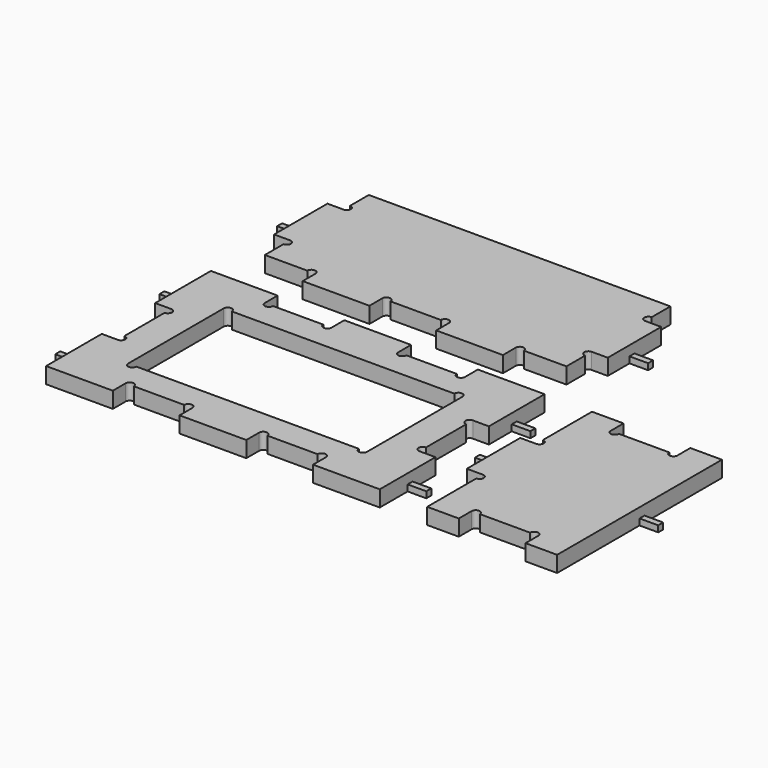
from build123d import *

# Parameters (mm, degrees)
F2_DEPTH  = 12.9
F1_W      = 12.9
F1_H      = 53.64
F1_W_2    = 53.64
F1_H_2    = 12.9
F3_DEPTH  = 12.9
F4_DEPTH  = 12.9
F5_W      = 5
F5_H      = 5
F6_DEPTH  = 15
F7_W      = 5
F7_H      = 5
F8_DEPTH  = 15
F9_W      = 5
F9_H      = 5
F10_DEPTH = 15
F11_W     = 5
F11_H     = 5
F12_DEPTH = 15
F13_W     = 5
F13_H     = 5
F14_DEPTH = 15
F15_W     = 5
F15_H     = 5
F16_DEPTH = 15
F17_W     = 5
F17_H     = 5
F18_DEPTH = 15
F19_W     = 5
F19_H     = 5
F20_DEPTH = 15


with BuildPart() as f2:
    # F1 (on Top) → F2 (new body)
    with BuildSketch(Plane.XY):
        with BuildLine():
            Line((-80.46, 82.7777777778), (-134.1, 82.7777777778))
            Line((-134.1, 82.7777777778), (-134.1, 26.82))
            Line((-134.1, 26.82), (-121.2, 26.82))
            ThreePointArc((-121.2, 26.82), (-118.8651334085, 25.8528665915), (-117.898, 23.518))
            ThreePointArc((-117.898, 23.518), (-118.8651334085, 21.1831334085), (-121.2, 20.216))
            Line((-121.2, 20.216), (-121.2, -20.216))
            ThreePointArc((-121.2, -20.216), (-118.8651334085, -21.1831334085), (-117.898, -23.518))
            ThreePointArc((-117.898, -23.518), (-118.8651334085, -25.8528665915), (-121.2, -26.82))
            Line((-121.2, -26.82), (-134.1, -26.82))
            Line((-134.1, -26.82), (-134.1, -82.7777777778))
            Line((-134.1, -82.7777777778), (-80.46, -82.7777777778))
            Line((-80.46, -82.7777777778), (-80.46, -69.8777777778))
            ThreePointArc((-80.46, -69.8777777778), (-77.158, -66.5757777778), (-73.856, -69.8777777778))
            Line((-73.856, -69.8777777778), (-33.424, -69.8777777778))
            ThreePointArc((-33.424, -69.8777777778), (-30.122, -66.5757777778), (-26.82, -69.8777777778))
            Line((-26.82, -69.8777777778), (-26.82, -82.7777777778))
            Line((-26.82, -82.7777777778), (26.82, -82.7777777778))
            Line((26.82, -82.7777777778), (26.82, -69.8777777778))
            ThreePointArc((26.82, -69.8777777778), (30.122, -66.5757777778), (33.424, -69.8777777778))
            Line((33.424, -69.8777777778), (73.856, -69.8777777778))
            ThreePointArc((73.856, -69.8777777778), (77.158, -66.5757777778), (80.46, -69.8777777778))
            Line((80.46, -69.8777777778), (80.46, -82.7777777778))
            Line((80.46, -82.7777777778), (134.1, -82.7777777778))
            Line((134.1, -82.7777777778), (134.1, -26.82))
            Line((134.1, -26.82), (121.2, -26.82))
            ThreePointArc((121.2, -26.82), (117.898, -23.518), (121.2, -20.216))
            Line((121.2, -20.216), (121.2, 20.216))
            ThreePointArc((121.2, 20.216), (117.898, 23.518), (121.2, 26.82))
            Line((121.2, 26.82), (134.1, 26.82))
            Line((134.1, 26.82), (134.1, 82.7777777778))
            Line((134.1, 82.7777777778), (80.46, 82.7777777778))
            Line((80.46, 82.7777777778), (80.46, 69.8777777778))
            ThreePointArc((80.46, 69.8777777778), (77.158, 66.5757777778), (73.856, 69.8777777778))
            Line((73.856, 69.8777777778), (33.424, 69.8777777778))
            ThreePointArc((33.424, 69.8777777778), (30.122, 66.5757777778), (26.82, 69.8777777778))
            Line((26.82, 69.8777777778), (26.82, 82.7777777778))
            Line((26.82, 82.7777777778), (-26.82, 82.7777777778))
            Line((-26.82, 82.7777777778), (-26.82, 69.8777777778))
            ThreePointArc((-26.82, 69.8777777778), (-30.122, 66.5757777778), (-33.424, 69.8777777778))
            Line((-33.424, 69.8777777778), (-73.856, 69.8777777778))
            ThreePointArc((-73.856, 69.8777777778), (-77.158, 66.5757777778), (-80.46, 69.8777777778))
            Line((-80.46, 69.8777777778), (-80.46, 82.7777777778))
        make_face()
        with BuildLine():
            Line((89.396, -48), (-89.396, -48))
            ThreePointArc((-89.396, -48), (-92.698, -51.302), (-96, -48))
            Line((-96, -48), (-96, 48))
            ThreePointArc((-96, 48), (-92.698, 51.302), (-89.396, 48))
            Line((-89.396, 48), (89.396, 48))
            ThreePointArc((89.396, 48), (92.698, 51.302), (96, 48))
            Line((96, 48), (96, -48))
            ThreePointArc((96, -48), (92.698, -51.302), (89.396, -48))
        make_face(mode=Mode.SUBTRACT)
    extrude(amount=F2_DEPTH)

    # F5 (on face) → F6 (join)
    with BuildSketch(Plane(origin=(-134.1, 0, 0), x_dir=(0, -1, 0), z_dir=(-1, 0, 0))):
        with Locations((-52.2988888889, 2.5)):
            Rectangle(F5_W, F5_H)
    extrude(amount=F6_DEPTH)

    # F7 (on face) → F8 (join)
    with BuildSketch(Plane(origin=(-134.1, 0, 0), x_dir=(0, -1, 0), z_dir=(-1, 0, 0))):
        with Locations((52.2988888889, 2.5)):
            Rectangle(F7_W, F7_H)
    extrude(amount=F8_DEPTH)

    # F9 (on face) → F10 (join)
    with BuildSketch(Plane.YZ.offset(134.1)):
        with Locations((-52.2988888889, 2.5)):
            Rectangle(F9_W, F9_H)
    extrude(amount=F10_DEPTH)

    # F11 (on face) → F12 (join)
    with BuildSketch(Plane.YZ.offset(134.1)):
        with Locations((52.2988888889, 2.5)):
            Rectangle(F11_W, F11_H)
    extrude(amount=F12_DEPTH)


with BuildPart() as f3:
    # F1 (on Top) → F3 (new body)
    with BuildSketch(Plane.XY):
        with BuildLine():
            ThreePointArc((-87.064, 120.8777777778), (-83.762, 124.1797777778), (-80.46, 120.8777777778))
            Line((-80.46, 120.8777777778), (-26.82, 120.8777777778))
            ThreePointArc((-26.82, 120.8777777778), (-23.518, 124.1797777778), (-20.216, 120.8777777778))
            Line((-20.216, 120.8777777778), (20.216, 120.8777777778))
            ThreePointArc((20.216, 120.8777777778), (23.518, 124.1797777778), (26.82, 120.8777777778))
            Line((26.82, 120.8777777778), (80.46, 120.8777777778))
            ThreePointArc((80.46, 120.8777777778), (83.762, 124.1797777778), (87.064, 120.8777777778))
            Line((87.064, 120.8777777778), (121.2, 120.8777777778))
            Line((121.2, 120.8777777778), (121.2, 139.6737777778))
            ThreePointArc((121.2, 139.6737777778), (117.898, 142.9757777778), (121.2, 146.2777777778))
            Line((121.2, 146.2777777778), (121.2, 199.9177777778))
            ThreePointArc((121.2, 199.9177777778), (117.898, 203.2197777778), (121.2, 206.5217777778))
            Line((121.2, 206.5217777778), (121.2, 225.3177777778))
            Line((121.2, 225.3177777778), (-121.2, 225.3177777778))
            Line((-121.2, 225.3177777778), (-121.2, 206.5217777778))
            ThreePointArc((-121.2, 206.5217777778), (-118.8651334085, 205.5546443693), (-117.898, 203.2197777778))
            ThreePointArc((-117.898, 203.2197777778), (-118.8651334085, 200.8849111863), (-121.2, 199.9177777778))
            Line((-121.2, 199.9177777778), (-121.2, 146.2777777778))
            ThreePointArc((-121.2, 146.2777777778), (-118.8651334085, 145.3106443693), (-117.898, 142.9757777778))
            ThreePointArc((-117.898, 142.9757777778), (-118.8651334085, 140.6409111863), (-121.2, 139.6737777778))
            Line((-121.2, 139.6737777778), (-121.2, 120.8777777778))
            Line((-121.2, 120.8777777778), (-87.064, 120.8777777778))
        make_face()
        with Locations((-127.65, 173.0977777778)):
            Rectangle(F1_W, F1_H)
        with Locations((-53.64, 114.4277777778)):
            Rectangle(F1_W_2, F1_H_2)
        with Locations((53.64, 114.4277777778)):
            Rectangle(F1_W_2, F1_H_2)
        with Locations((127.65, 173.0977777778)):
            Rectangle(F1_W, F1_H)
    extrude(amount=F3_DEPTH)

    # F13 (on face) → F14 (join)
    with BuildSketch(Plane(origin=(-134.1, 0, 0), x_dir=(0, -1, 0), z_dir=(-1, 0, 0))):
        with Locations((-170.5977777778, 2.5)):
            Rectangle(F13_W, F13_H)
        with Locations((-170.5977777778, 2.5)):
            Rectangle(F13_W, F13_H)
    extrude(amount=F14_DEPTH)

    # F15 (on face) → F16 (join)
    with BuildSketch(Plane.YZ.offset(134.1)):
        with Locations((170.5977777778, 2.5)):
            Rectangle(F15_W, F15_H)
    extrude(amount=F16_DEPTH)


with BuildPart() as f4:
    # F1 (on Top) → F4 (new body)
    with BuildSketch(Plane.XY):
        with BuildLine():
            ThreePointArc((175.502, 30.122), (174.5348665915, 27.7871334085), (172.2, 26.82))
            Line((172.2, 26.82), (172.2, -26.82))
            ThreePointArc((172.2, -26.82), (174.5348665915, -27.7871334085), (175.502, -30.122))
            ThreePointArc((175.502, -30.122), (174.5348665915, -32.4568665915), (172.2, -33.424))
            Line((172.2, -33.424), (172.2, -82.7777777778))
            Line((172.2, -82.7777777778), (197.6, -82.7777777778))
            Line((197.6, -82.7777777778), (197.6, -69.8777777778))
            ThreePointArc((197.6, -69.8777777778), (200.902, -66.5757777778), (204.204, -69.8777777778))
            Line((204.204, -69.8777777778), (244.636, -69.8777777778))
            ThreePointArc((244.636, -69.8777777778), (247.938, -66.5757777778), (251.24, -69.8777777778))
            Line((251.24, -69.8777777778), (251.24, -82.7777777778))
            Line((251.24, -82.7777777778), (276.64, -82.7777777778))
            Line((276.64, -82.7777777778), (276.64, 82.7777777778))
            Line((276.64, 82.7777777778), (251.24, 82.7777777778))
            Line((251.24, 82.7777777778), (251.24, 69.8777777778))
            ThreePointArc((251.24, 69.8777777778), (247.938, 66.5757777778), (244.636, 69.8777777778))
            Line((244.636, 69.8777777778), (204.204, 69.8777777778))
            ThreePointArc((204.204, 69.8777777778), (200.902, 66.5757777778), (197.6, 69.8777777778))
            Line((197.6, 69.8777777778), (197.6, 82.7777777778))
            Line((197.6, 82.7777777778), (172.2, 82.7777777778))
            Line((172.2, 82.7777777778), (172.2, 33.424))
            ThreePointArc((172.2, 33.424), (174.5348665915, 32.4568665915), (175.502, 30.122))
        make_face()
        with Locations((165.75, 0)):
            Rectangle(F1_W, F1_H)
    extrude(amount=F4_DEPTH)

    # F17 (on face) → F18 (join)
    with BuildSketch(Plane(origin=(159.3, 0, 0), x_dir=(0, -1, 0), z_dir=(-1, 0, 0))):
        with Locations((-2.5, 2.5)):
            Rectangle(F17_W, F17_H)
    extrude(amount=F18_DEPTH)

    # F19 (on face) → F20 (join)
    with BuildSketch(Plane.YZ.offset(276.64)):
        with Locations((2.5, 2.5)):
            Rectangle(F19_W, F19_H)
    extrude(amount=F20_DEPTH)


solid = Compound([f2.part, f3.part, f4.part])
